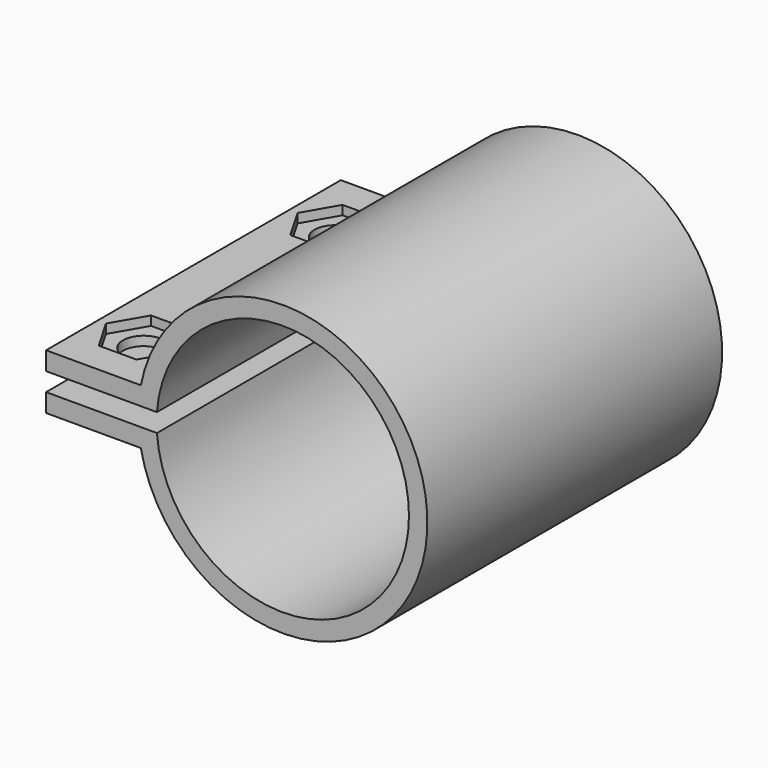
from build123d import *

# Parameters (mm, degrees)
F1_DEPTH = 40
F3_DEPTH = 1
F4_R     = 2.25
F5_DEPTH = 18.701


with BuildPart() as f1:
    # F0 (on Front) → F1 (new body)
    with BuildSketch(Plane.XZ):
        with BuildLine():
            ThreePointArc((-13.663455, 1), (13.7, 0), (-13.663455, -1))
            Line((-13.663455, -1), (-25.7, -1))
            Line((-25.7, -1), (-25.7, -3))
            Line((-25.7, -3), (-15.410711, -3))
            ThreePointArc((-15.410711, -3), (15.7, 0), (-15.410711, 3))
            Line((-15.410711, 3), (-25.7, 3))
            Line((-25.7, 3), (-25.7, 1))
            Line((-25.7, 1), (-13.663455, 1))
        make_face()
    extrude(amount=F1_DEPTH)

    # F2 (on face) → F3 (cut)
    with BuildSketch(Plane.XY.offset(3)):
        Polygon((-16.600813, -33), (-18.650407, -29.45), (-22.749593, -29.45), (-24.799187, -33), (-22.749593, -36.55), (-18.650407, -36.55), align=None)
        Polygon((-24.799187, -7), (-22.749593, -10.55), (-18.650407, -10.55), (-16.600813, -7), (-18.650407, -3.45), (-22.749593, -3.45), align=None)
    extrude(amount=-F3_DEPTH, mode=Mode.SUBTRACT)

    # F4 (on face) → F5 (cut, through all)
    with BuildSketch(Plane.XY.offset(3)):
        with Locations((-20.7, -33)):
            Circle(F4_R)
        with Locations((-20.7, -7)):
            Circle(F4_R)
    extrude(amount=-F5_DEPTH, mode=Mode.SUBTRACT)


solid = f1.part
